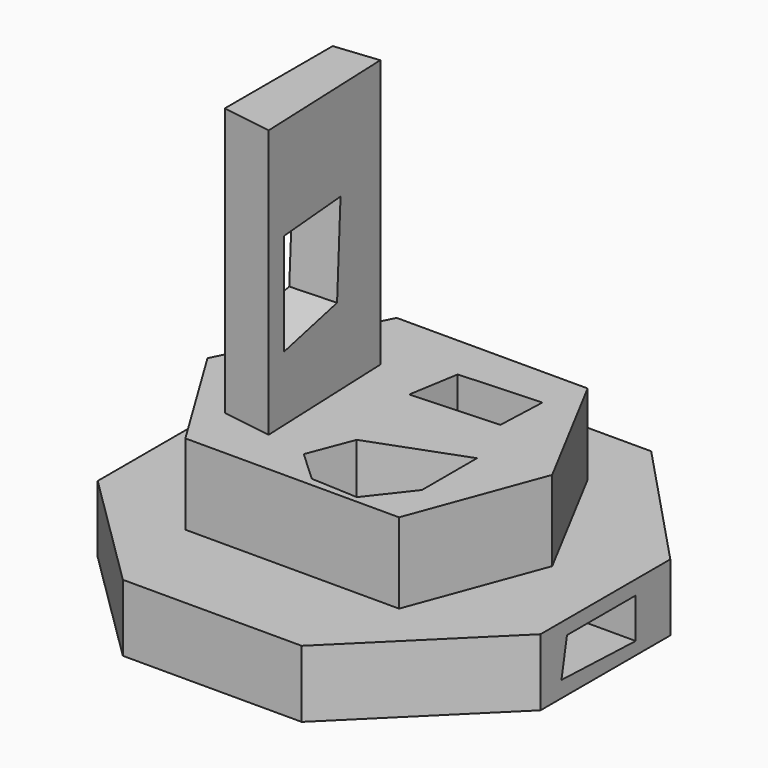
from build123d import *

# Parameters (mm, degrees)
PAD_DEPTH       = 10
PAD001_DEPTH    = 12
PAD002_DEPTH    = 40
POCKET_DEPTH    = 6
POCKET001_DEPTH = 18
POCKET002_DEPTH = 9
POCKET003_DEPTH = 40


with BuildPart() as part:
    # Sketch → Pad (new body)
    with BuildSketch(Plane.XY):
        Polygon((-10.633484, 29.864252), (19.9095, 29.864252), (38.687782, 9.95475), (38.687782, -14.253396), (18.778282, -33.936649), (-7.918551, -33.936649), (-25.791855, -16.289593), (-25.791855, 17.194569), align=None)
    extrude(amount=PAD_DEPTH)

    # Sketch002 (on Face10 of Pad) → Pad001 (join)
    with BuildSketch(Plane.XY.offset(10)):
        Polygon((-9.896216, 19.621426), (18.610573, 19.621426), (29.017811, 0), (21.777992, -19.518847), (-10.12246, -19.518847), (-20.755943, -2.09803), align=None)
    extrude(amount=PAD001_DEPTH)

    # Sketch003 (on Face17 of Pad001) → Pad002 (join)
    with BuildSketch(Plane.XY.offset(22)):
        Polygon((-10.574949, 8.535451), (-4.013864, 9.214187), (-3.108886, -12.731516), (-10.574949, -11.600292), align=None)
    extrude(amount=PAD002_DEPTH)

    # Sketch004 (on Face17 of Pad002) → Pocket (cut)
    with BuildSketch(Plane.XY.offset(22)):
        Polygon((4.578534, 12.919245), (16.729834, 13.542388), (16.418259, 6.064667), (3.332247, 5.441524), align=None)
    extrude(amount=-POCKET_DEPTH, mode=Mode.SUBTRACT)

    # Sketch005 (on Face17 of Pocket) → Pocket001 (cut)
    with BuildSketch(Plane.XY.offset(22)):
        Polygon((5.699865, -7.326652), (19.550392, -2.196826), (19.550392, -12.456478), (14.762555, -18.612268), (7.751796, -18.270281), (3.13495, -13.995423), align=None)
    extrude(amount=-POCKET001_DEPTH, mode=Mode.SUBTRACT)

    # Sketch006 (on Face27 of Pocket001) → Pocket002 (cut)
    with BuildSketch(Plane(origin=(-3.6277283341, -0.1495971367, 0), x_dir=(-0.0412021215, 0.999150832, 0), z_dir=(0.999150832, 0.0412021215, 0))):
        Polygon((-9.565722, 46.86203), (1.548902, 47.375011), (0.864925, 33.695477), (-9.565722, 31.643547), align=None)
    extrude(amount=-POCKET002_DEPTH, mode=Mode.SUBTRACT)

    # Sketch008 (on Face7 of Pocket002) → Pocket003 (cut)
    with BuildSketch(Plane.YZ.offset(38.687782)):
        Polygon((-9.326732, 7.876174), (3.497833, 7.876174), (3.497833, 1.89138), (-10.352697, 2.404365), align=None)
    extrude(amount=-POCKET003_DEPTH, mode=Mode.SUBTRACT)


solid = part.part
